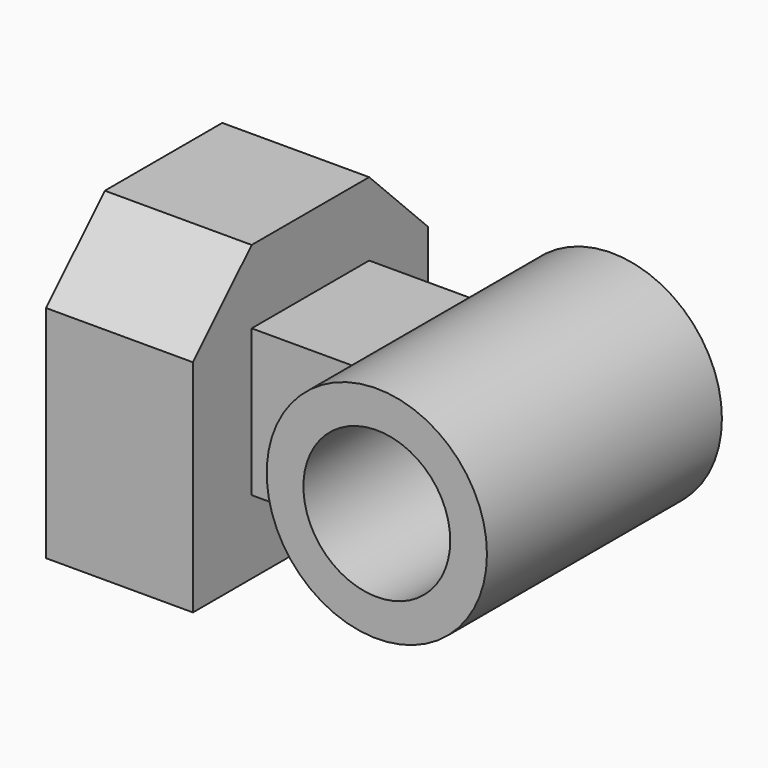
from build123d import *

# Parameters (mm, degrees)
F0_W      = 12.7
F0_H      = 25.4
F1_DEPTH  = 25.4
F3_DEPTH  = 25.4
F5_DEPTH  = 25.4
F6_W      = 12.7
F6_H      = 12.7
F7_DEPTH  = 12.7
F8_R      = 9.525
F8_R_2    = 6.35
F9_DEPTH  = 12.7
F11_DEPTH = 25.4


with BuildPart() as f1:
    # F0 (on Top) → F1 (new body)
    with BuildSketch(Plane.XY):
        with Locations((-6.35, 0)):
            Rectangle(F0_W, F0_H)
    extrude(amount=F1_DEPTH)

    # F2 (on face) → F3 (cut)
    with BuildSketch(Plane.YZ):
        Polygon((-12.7, 19.05), (-6.35, 25.4), (-12.7, 25.4), align=None)
    extrude(amount=-F3_DEPTH, mode=Mode.SUBTRACT)

    # F4 (on face) → F5 (cut)
    with BuildSketch(Plane.YZ):
        Polygon((12.7, 25.4), (6.35, 25.4), (12.7, 19.05), align=None)
    extrude(amount=-F5_DEPTH, mode=Mode.SUBTRACT)

    # F6 (on face) → F7 (join)
    with BuildSketch(Plane.YZ):
        with Locations((0, 12.7)):
            Rectangle(F6_W, F6_H)
    extrude(amount=F7_DEPTH)


with BuildPart() as f9:
    # F8 (on Front) → F9 (new body, symmetric)
    with BuildSketch(Plane.XZ):
        with Locations((15.9044696867, 12.7)):
            Circle(F8_R)
        with Locations((15.9044696867, 12.7)):
            Circle(F8_R_2, mode=Mode.SUBTRACT)
    extrude(amount=F9_DEPTH, both=True)


with BuildPart() as f1_1:
    add(f1.part)

    # F10: union F9
    add(f9.part)

    # F11 (cut): a face of the model
    f11_faces = [f1_1.faces().sort_by_distance(p)[0] for p in [
        (11.4105492836, -6.35, 12.7),
    ]]
    extrude(f11_faces, amount=-F11_DEPTH, mode=Mode.SUBTRACT)


solid = f1_1.part
